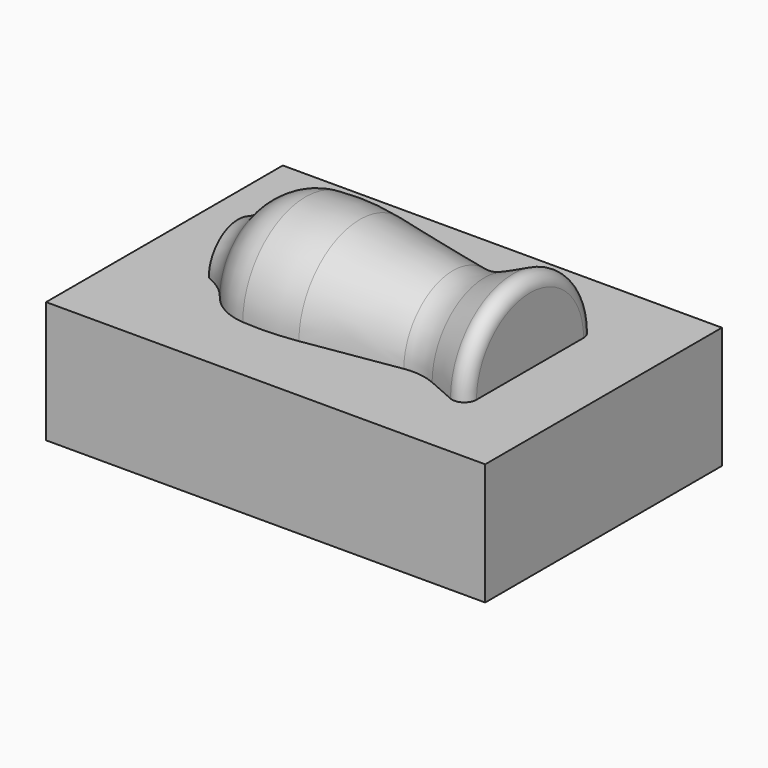
from build123d import *

# Parameters (mm, degrees)
F2_W     = 229.145602
F2_H     = 154.409528
F3_DEPTH = 63.5


with BuildPart() as f1:
    # F0 (on Top) → F1 (revolve)
    with BuildSketch(Plane.XY):
        with BuildLine():
            Line((-76.2, 19.05), (-76.2, 0))
            Line((-76.2, 0), (76.2, 0))
            Line((76.2, 0), (76.2, 34.925))
            ThreePointArc((76.2, 34.925), (73.321803, 40.241868), (67.296352, 40.738895))
            Line((67.296352, 40.738895), (52.49993, 34.239835))
            ThreePointArc((52.49993, 34.239835), (44.42729, 31.994194), (36.048919, 32.109551))
            Line((36.048919, 32.109551), (-12.584829, 39.774077))
            ThreePointArc((-12.584829, 39.774077), (-26.724262, 41.172374), (-40.930638, 40.93221))
            ThreePointArc((-40.930638, 40.93221), (-52.695618, 37.488147), (-62.031521, 29.543512))
            ThreePointArc((-62.031521, 29.543512), (-68.382458, 23.306641), (-76.2, 19.05))
        make_face()
    revolve(axis=Axis((0, 0, 0), (1, 0, 0)))

    # F2 (on Top) → F3 (join)
    with BuildSketch(Plane.XY):
        Rectangle(F2_W, F2_H)
    extrude(amount=-F3_DEPTH)


solid = f1.part
